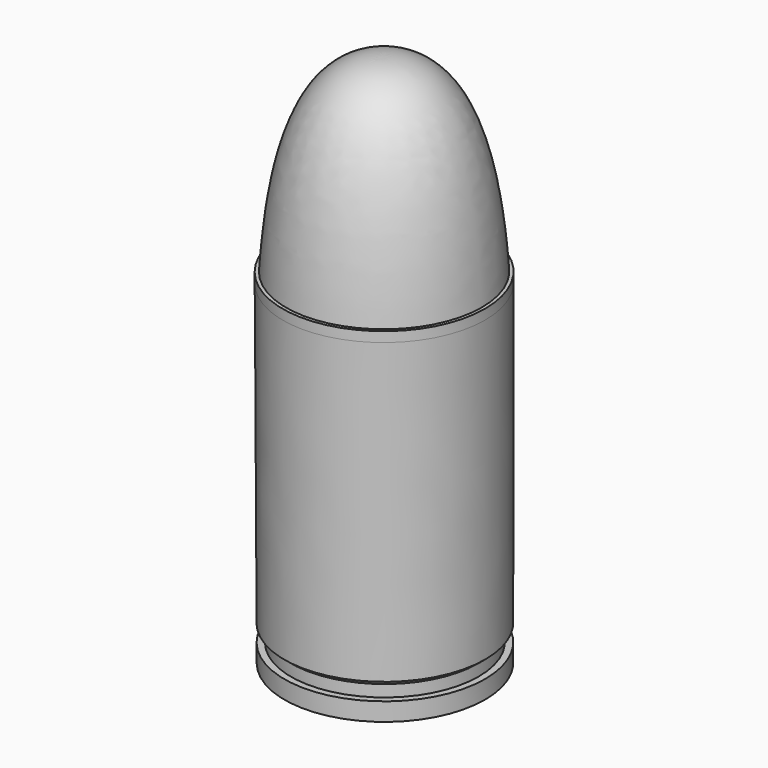
from build123d import *


with BuildPart() as f1:
    # F0 (on Front) → F1 (revolve)
    with BuildSketch(Plane.XZ):
        with BuildLine():
            Line((13.4330698064, -46.3841338361), (15.2060489871, -46.3841338361))
            Line((15.2060489871, -46.3841338361), (15.2060312931, -43.6701662838))
            Line((15.2060312931, -43.6701662838), (14.2253357917, -43.6701662838))
            Line((14.2253357917, -43.6701662838), (14.2253357917, -41.9087485828))
            Line((14.2253357917, -41.9087485828), (15.2060145196, -41.0973673151))
            Line((15.2060145196, -41.0973673151), (15.2057230017, 3.6168700514))
            Line((15.2057230017, 3.6168700514), (15.2057230017, 5.1168700514))
            Line((15.2057230017, 5.1168700514), (14.7057230017, 5.1168700514))
            add(Edge.make_bspline(
                [(14.7057230017, 5.1168700514), (13.6535132095, 21.3489830368), (10.0671686232, 33.6324311793), (0, 33.2716815174)],
                knots=[0, 0, 0, 0, 31.7640000266, 31.7640000266, 31.7640000266, 31.7640000266], degree=3))
            Line((0, 33.2716815174), (0.2071067812, -45.3841338361))
            Line((0.2071067812, -45.3841338361), (1.2071067812, -46.3841338361))
            Line((1.2071067812, -46.3841338361), (7.4330698064, -46.3841338361))
            Line((7.4330698064, -46.3841338361), (8.4330698064, -46.3841338361))
            Line((8.4330698064, -46.3841338361), (9.4330698064, -45.3841338361))
            Line((9.4330698064, -45.3841338361), (10.4330698064, -45.3841338361))
            Line((10.4330698064, -45.3841338361), (11.4330698064, -46.3841338361))
            Line((11.4330698064, -46.3841338361), (13.4330698064, -46.3841338361))
        make_face()
    revolve(axis=Axis((0.1035533906, 0, -6.0562261594), (0.0026330674, 0, -0.9999965335)))


solid = f1.part
